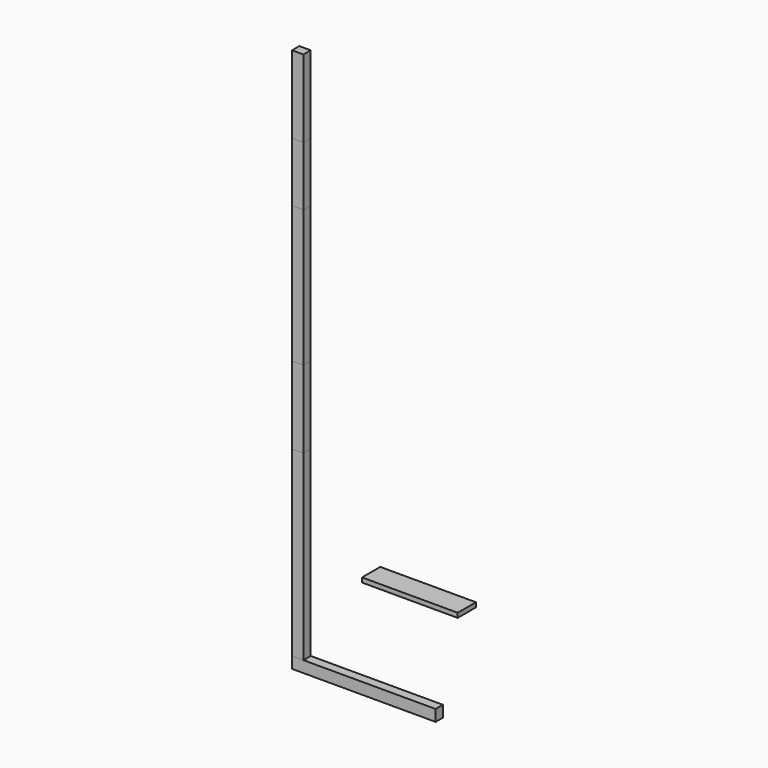
from build123d import *

# Parameters (mm, degrees)
F0_W     = 50
F0_H     = 800
F0_H_2   = 50
F1_DEPTH = 40
F2_DEPTH = 40
F3_DEPTH = 340
F4_DEPTH = 600
F5_DEPTH = 260
F6_DEPTH = 340
F7_W     = 100
F7_H     = 20
F8_DEPTH = 420


with BuildPart() as f1:
    # F0 (on Front) → F1 (new body)
    with BuildSketch(Plane.XZ):
        with Locations((-290, 0)):
            Rectangle(F0_W, F0_H)
        with Locations((-290, -425)):
            Rectangle(F0_W, F0_H_2)
    extrude(amount=F1_DEPTH)


with BuildPart() as f2:
    # F0 (on Front) → F2 (new body)
    with BuildSketch(Plane.XZ):
        Polygon((315, -400), (265, -400), (-265, -400), (-265, -450), (315, -450), align=None)
        with Locations((-290, -425)):
            Rectangle(F0_W, F0_H_2)
    extrude(amount=F2_DEPTH)


with BuildPart() as f3:
    # F3 (new): a face of the model
    f3_faces = [f1.part.faces().sort_by_distance(p)[0] for p in [
        (-290, -20, 400),
    ]]
    extrude(f3_faces, amount=F3_DEPTH)


with BuildPart() as f4:
    # F4 (new): a face of the model
    f4_faces = [f3.part.faces().sort_by_distance(p)[0] for p in [
        (-290, -20, 740),
    ]]
    extrude(f4_faces, amount=F4_DEPTH)


with BuildPart() as f5:
    # F5 (new): a face of the model
    f5_faces = [f4.part.faces().sort_by_distance(p)[0] for p in [
        (-290, -20, 1340),
    ]]
    extrude(f5_faces, amount=F5_DEPTH)


with BuildPart() as f6:
    # F6 (new): a face of the model
    f6_faces = [f5.part.faces().sort_by_distance(p)[0] for p in [
        (-290, -20, 1600),
    ]]
    extrude(f6_faces, amount=F6_DEPTH)


with BuildPart() as f8:
    # F7 (on Right) → F8 (new body)
    with BuildSketch(Plane.YZ):
        Rectangle(F7_W, F7_H)
    extrude(amount=F8_DEPTH)


solid = Compound([f1.part, f2.part, f3.part, f4.part, f5.part, f6.part, f8.part])
